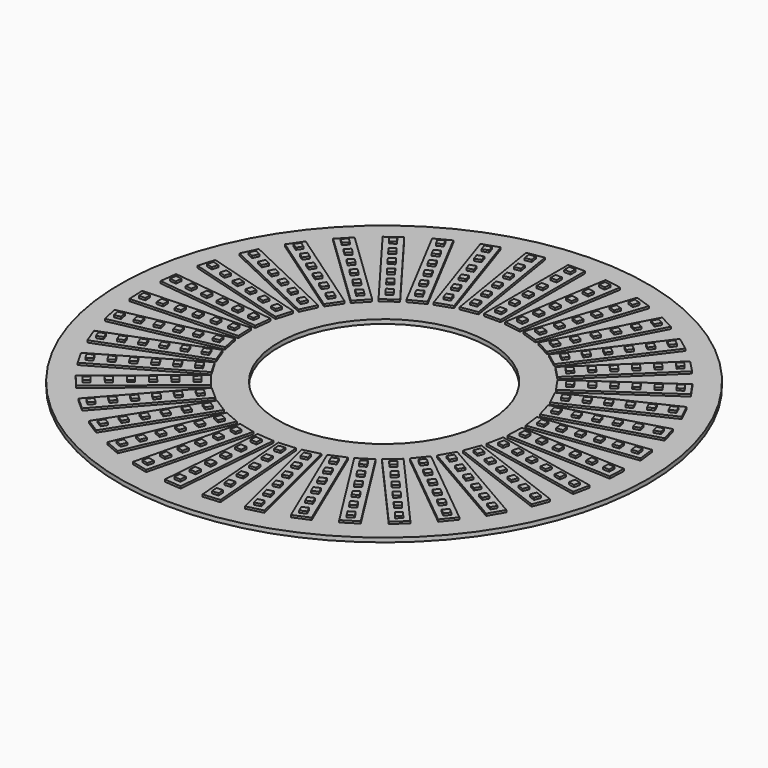
from build123d import *

# Parameters (mm, degrees)
F0_R     = 125
F0_R_2   = 50
F1_DEPTH = 2
F2_W     = 8
F2_H     = 50
F3_DEPTH = 1
F4_W     = 3
F4_H     = 3
F5_DEPTH = 1
F7_COUNT = 39


with BuildPart() as f1:
    # F0 (on Top) → F1 (new body)
    with BuildSketch(Plane.XY):
        Circle(F0_R)
        Circle(F0_R_2, mode=Mode.SUBTRACT)
    extrude(amount=F1_DEPTH)

    # F2 (on face) → F3 (join)
    with BuildSketch(Plane.XY.offset(2)):
        with Locations((0, 89)):
            Rectangle(F2_W, F2_H)
    extrude(amount=F3_DEPTH)

    # F4 (on face) → F5 (join)
    with BuildSketch(Plane.XY.offset(3)):
        with Locations((0, 110)):
            Rectangle(F4_W, F4_H)
        with Locations((0, 101.8)):
            Rectangle(F4_W, F4_H)
        with Locations((0, 93.6)):
            Rectangle(F4_W, F4_H)
        with Locations((0, 85.4)):
            Rectangle(F4_W, F4_H)
        with Locations((0, 77.2)):
            Rectangle(F4_W, F4_H)
        with Locations((0, 69)):
            Rectangle(F4_W, F4_H)
    extrude(amount=F5_DEPTH)

    # F7: F1 ×39 about axis
    f7_axis = Axis((0, 0, 17.470932), (0, 0, 1))


with BuildPart() as f1_1:
    add(f1.part)
    for i in range(1, F7_COUNT):
        add(f1.part.rotate(f7_axis, i * 360 / F7_COUNT))


solid = f1_1.part
